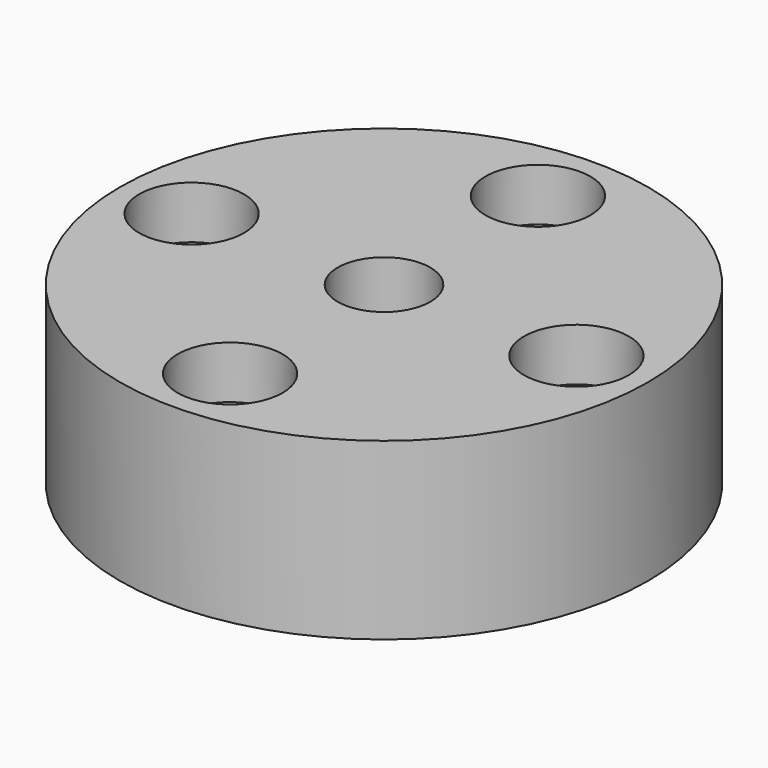
from build123d import *

# Parameters (mm, degrees)
CYLINDER695_R     = 2.65
CYLINDER695_DEPTH = 30
CYLINDER693_R     = 3
CYLINDER693_DEPTH = 3
CYLINDER690_R     = 3
CYLINDER690_DEPTH = 3
CYLINDER698_R     = 3
CYLINDER698_DEPTH = 3
CYLINDER687_R     = 3
CYLINDER687_DEPTH = 3
CYLINDER699_R     = 1.5
CYLINDER699_DEPTH = 30
CYLINDER684_R     = 1.5
CYLINDER684_DEPTH = 30
CYLINDER700_R     = 1.5
CYLINDER700_DEPTH = 30
CYLINDER688_R     = 1.5
CYLINDER688_DEPTH = 30
CYLINDER694_R     = 15.1
CYLINDER694_DEPTH = 10


with BuildPart() as obj1:
    # Cylinder695 → Cylinder695 (new body)
    with BuildSketch(Plane(origin=(0, 83, 232), x_dir=(1, 0, 0), z_dir=(0, 0, 1))):
        Circle(CYLINDER695_R)
    extrude(amount=CYLINDER695_DEPTH)


with BuildPart() as obj2:
    # Cylinder693 → Cylinder693 (new body)
    with BuildSketch(Plane(origin=(11, 83, 232), x_dir=(1, 0, 0), z_dir=(0, 0, 1))):
        Circle(CYLINDER693_R)
    extrude(amount=CYLINDER693_DEPTH)


with BuildPart() as obj3:
    # Cylinder690 → Cylinder690 (new body)
    with BuildSketch(Plane(origin=(0, 72, 232), x_dir=(1, 0, 0), z_dir=(0, 0, 1))):
        Circle(CYLINDER690_R)
    extrude(amount=CYLINDER690_DEPTH)


with BuildPart() as obj4:
    # Cylinder698 → Cylinder698 (new body)
    with BuildSketch(Plane(origin=(0, 94, 232), x_dir=(1, 0, 0), z_dir=(0, 0, 1))):
        Circle(CYLINDER698_R)
    extrude(amount=CYLINDER698_DEPTH)


with BuildPart() as compound371:
    # Cylinder687 → Cylinder687 (new body)
    with BuildSketch(Plane(origin=(-11, 83, 232), x_dir=(1, 0, 0), z_dir=(0, 0, 1))):
        Circle(CYLINDER687_R)
    extrude(amount=CYLINDER687_DEPTH)

    # Compound371: union obj2, obj3, obj4
    add(obj2.part)
    add(obj3.part)
    add(obj4.part)


with BuildPart() as compound371_1:
    # Compound371 placement: moved
    add(compound371.part.moved(Location((0, 0, 17))))


with BuildPart() as obj5:
    # Cylinder699 → Cylinder699 (new body)
    with BuildSketch(Plane(origin=(11, 83, 232), x_dir=(1, 0, 0), z_dir=(0, 0, 1))):
        Circle(CYLINDER699_R)
    extrude(amount=CYLINDER699_DEPTH)


with BuildPart() as obj6:
    # Cylinder684 → Cylinder684 (new body)
    with BuildSketch(Plane(origin=(0, 72, 232), x_dir=(1, 0, 0), z_dir=(0, 0, 1))):
        Circle(CYLINDER684_R)
    extrude(amount=CYLINDER684_DEPTH)


with BuildPart() as obj7:
    # Cylinder700 → Cylinder700 (new body)
    with BuildSketch(Plane(origin=(0, 94, 232), x_dir=(1, 0, 0), z_dir=(0, 0, 1))):
        Circle(CYLINDER700_R)
    extrude(amount=CYLINDER700_DEPTH)


with BuildPart() as compound370:
    # Cylinder688 → Cylinder688 (new body)
    with BuildSketch(Plane(origin=(-11, 83, 232), x_dir=(1, 0, 0), z_dir=(0, 0, 1))):
        Circle(CYLINDER688_R)
    extrude(amount=CYLINDER688_DEPTH)

    # Compound370: union obj5, obj6, obj7
    add(obj5.part)
    add(obj6.part)
    add(obj7.part)


with BuildPart() as cut279:
    # Cylinder694 → Cylinder694 (new body)
    with BuildSketch(Plane(origin=(0, 83, 242), x_dir=(1, 0, 0), z_dir=(0, 0, 1))):
        Circle(CYLINDER694_R)
    extrude(amount=CYLINDER694_DEPTH)

    # Cut274: cut Compound370
    add(compound370.part, mode=Mode.SUBTRACT)

    # Cut277: cut Compound371
    add(compound371_1.part, mode=Mode.SUBTRACT)

    # Cut279: cut obj1
    add(obj1.part, mode=Mode.SUBTRACT)


solid = cut279.part
